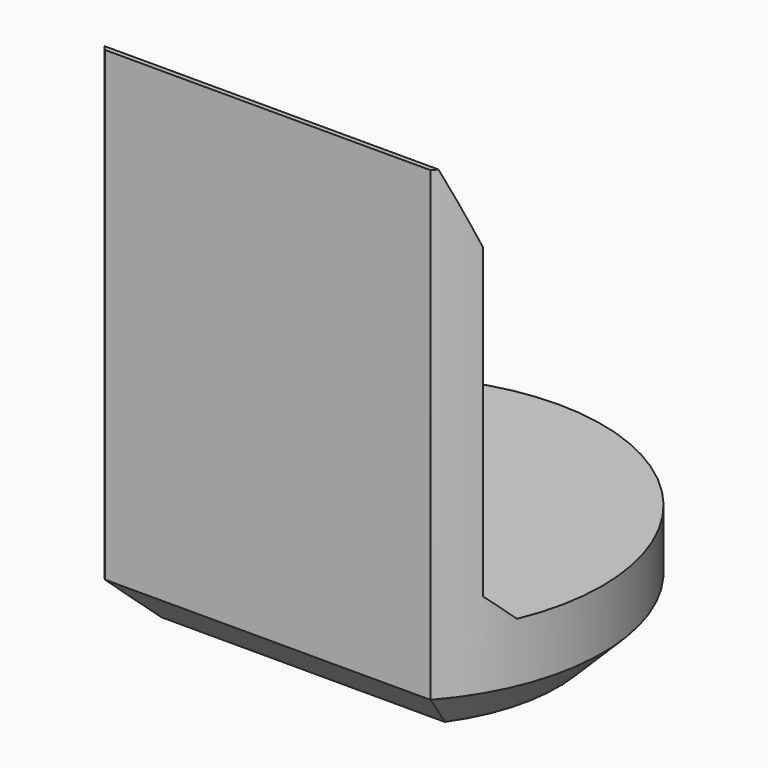
from build123d import *

# Parameters (mm, degrees)
PAD007_DEPTH         = 6.9
POCKET005_DEPTH      = 2.951
POCKET005_DEPTH_BACK = 2.951
CHAMFER008_SIZE      = 0.6


with BuildPart() as part:
    # Sketch018 → Pad007 (new body)
    with BuildSketch(Plane.XY):
        with BuildLine():
            ThreePointArc((2.2, -1.9653244007), (0, 2.95), (-2.2, -1.9653244007))
            Line((-2.2, -1.9653244007), (2.2, -1.9653244007))
        make_face()
    extrude(amount=PAD007_DEPTH)

    # Sketch019 → Pocket005 (cut, two sides)
    with BuildSketch(Plane.YZ) as pocket005_sk:
        Polygon((-1.9, 6.9), (-1.5, 5.9), (-1.5, 1.75), (-1.15, 1.4), (5, 1.4), (5, 6.9), align=None)
    extrude(amount=-POCKET005_DEPTH, mode=Mode.SUBTRACT)
    extrude(pocket005_sk.sketch, amount=POCKET005_DEPTH_BACK, mode=Mode.SUBTRACT)

    # Chamfer008
    chamfer008_edges = [part.edges().sort_by_distance(p)[0] for p in [
        (0, 2.95, 0),
        (0, -1.965324, 0),
    ]]
    chamfer(chamfer008_edges, length=CHAMFER008_SIZE)


with BuildPart() as part_1:
    # Body060 placement: moved
    add(part.part.moved(Location((0, 60, 0))))


solid = part_1.part
